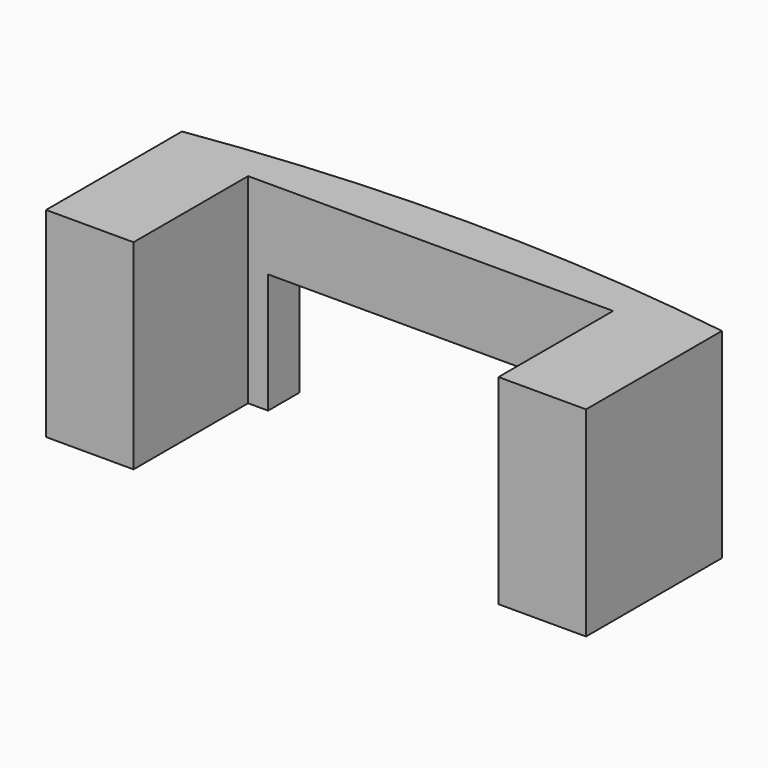
from build123d import *

# Parameters (mm, degrees)
F1_DEPTH = 50
F2_W     = 81.249358
F2_H     = 37.196705
F3_DEPTH = 30


with BuildPart() as f1:
    # F0 (on Top) → F1 (new body)
    with BuildSketch(Plane.XY):
        with BuildLine():
            ThreePointArc((67.5, 20.704213), (0, 25.704213), (-67.5, 20.704213))
            Line((-67.5, 20.704213), (-67.5, -21.772621))
            Line((-67.5, -21.772621), (-45.624679, -21.772621))
            Line((-45.624679, -21.772621), (-45.624679, 14.025466))
            Line((-45.624679, 14.025466), (0, 14.025466))
            Line((0, 14.025466), (45.624679, 14.025466))
            Line((45.624679, 14.025466), (45.624679, -21.772621))
            Line((45.624679, -21.772621), (67.5, -21.772621))
            Line((67.5, -21.772621), (67.5, 20.704213))
        make_face()
    extrude(amount=F1_DEPTH)

    # F2 (on Front) → F3 (cut)
    with BuildSketch(Plane.XZ):
        with Locations((0, 11.401647)):
            Rectangle(F2_W, F2_H)
    extrude(amount=-F3_DEPTH, mode=Mode.SUBTRACT)


solid = f1.part
